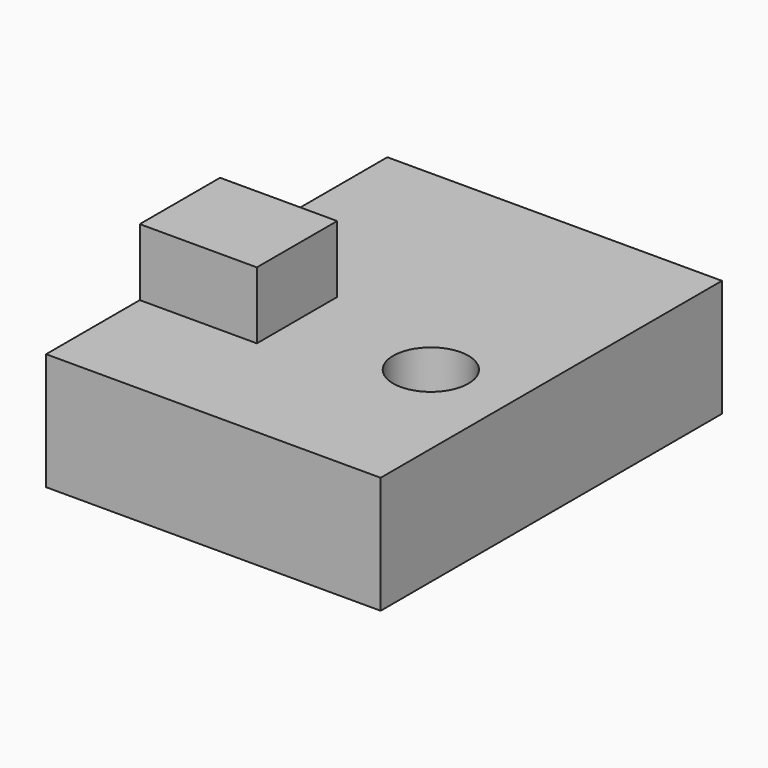
from build123d import *

# Parameters (mm, degrees)
F0_R     = 2.25
F1_DEPTH = 7
F0_W     = 7
F0_H     = 6
F2_DEPTH = 11
F4_D     = 2.8
F4_DEPTH = 11
F4_TIP   = 0.8412048666


with BuildPart() as f1:
    # F0 (on Top) → F1 (new body)
    with BuildSketch(Plane.XY):
        Polygon((-22.5828918815, 30.6862212941), (-42.5828918815, 30.6862212941), (-42.5828918815, 18.1862212941), (-35.5828918815, 18.1862212941), (-35.5828918815, 12.1862212941), (-42.5828918815, 12.1862212941), (-42.5828918815, 5.1862212941), (-22.5828918815, 5.1862212941), align=None)
        with Locations((-27.5828918815, 15.1862212941)):
            Circle(F0_R, mode=Mode.SUBTRACT)
    extrude(amount=F1_DEPTH)

    # F0 (on Top) → F2 (join)
    with BuildSketch(Plane.XY):
        with Locations((-39.0828918815, 15.1862212941)):
            Rectangle(F0_W, F0_H)
    extrude(amount=F2_DEPTH)

    # F4
    with Locations(Plane(origin=(0, 30.6862212941, 0), x_dir=(-1, 0, 0), z_dir=(0, 1, 0))):
        with Locations((32.5828918815, 3.5)):
            Hole(F4_D / 2, depth=F4_DEPTH)
            with Locations((0, 0, -(F4_DEPTH + F4_TIP / 2))):  # 118° drill point
                Cone(0, F4_D / 2, F4_TIP, mode=Mode.SUBTRACT)


solid = f1.part
